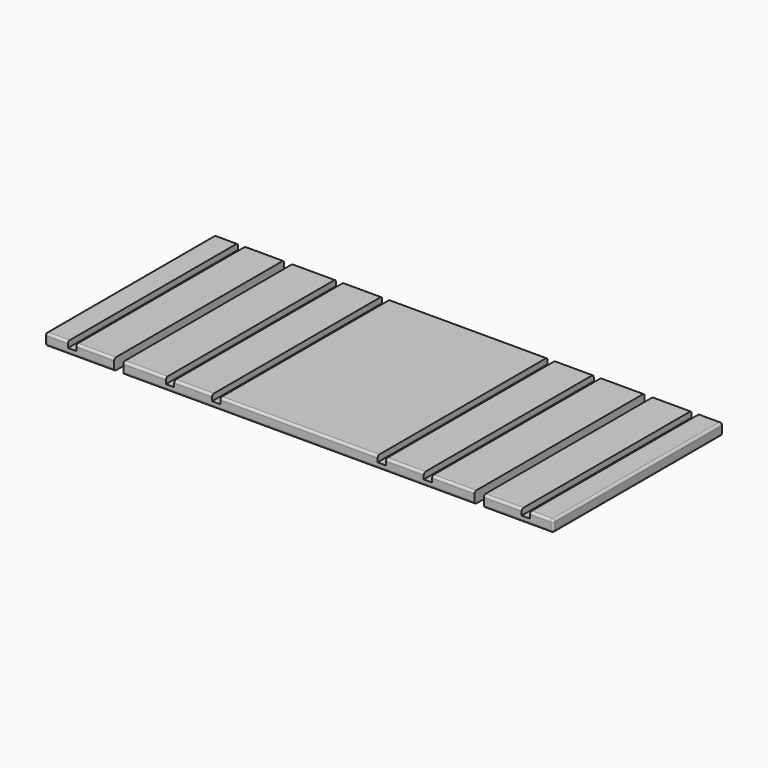
from build123d import *

# Parameters (mm, degrees)
F0_W     = 760
F0_H     = 460
F1_DEPTH = 25
F2_R     = 5
F3_W     = 18
F3_H     = 13
F4_DEPTH = 250
F6_DEPTH = 25
F7_R     = 5
F8_W     = 18
F8_H     = 13
F9_DEPTH = 250


with BuildPart() as f1:
    # F0 (on Top) → F1 (new body)
    with BuildSketch(Plane.XY):
        Rectangle(F0_W, F0_H)
    extrude(amount=F1_DEPTH)

    # F2
    f2_edges = [f1.edges().sort_by_distance(p)[0] for p in [
        (0, -230, 25),
        (0, 230, 25),
        (0, 230, 0),
        (0, -230, 0),
    ]]
    fillet(f2_edges, radius=F2_R)

    # F3 (on Front) → F4 (cut, symmetric)
    with BuildSketch(Plane.XZ):
        with Locations((-179, 18.5)):
            Rectangle(F3_W, F3_H)
        with Locations((-279, 18.5)):
            Rectangle(F3_W, F3_H)
        with Locations((179, 18.5)):
            Rectangle(F3_W, F3_H)
        with Locations((279, 18.5)):
            Rectangle(F3_W, F3_H)
    extrude(amount=F4_DEPTH, both=True, mode=Mode.SUBTRACT)


with BuildPart() as f6:
    # F5 (on Top) → F6 (new body)
    with BuildSketch(Plane.XY):
        Polygon((-400, -230), (-400, 0), (-400, 230), (-550, 230), (-550, -230), align=None)
        Polygon((400, 0), (400, -230), (550, -230), (550, 230), (400, 230), align=None)
    extrude(amount=F6_DEPTH)

    # F7
    f7_edges = [f6.edges().sort_by_distance(p)[0] for p in [
        (-475, 230, 25),
        (-550, 0, 25),
        (-475, -230, 25),
        (-475, -230, 0),
        (-550, 0, 0),
        (-475, 230, 0),
        (475, 230, 0),
        (550, 0, 0),
        (475, -230, 0),
        (475, 230, 25),
        (475, -230, 25),
        (550, 0, 25),
        (550, -230, 12.5),
        (550, 230, 12.5),
        (-550, -230, 12.5),
        (-550, 230, 12.5),
    ]]
    fillet(f7_edges, radius=F7_R)

    # F8 (on Front) → F9 (cut, symmetric)
    with BuildSketch(Plane.XZ):
        with Locations((-491, 18.5)):
            Rectangle(F8_W, F8_H)
        with Locations((491, 18.5)):
            Rectangle(F8_W, F8_H)
    extrude(amount=F9_DEPTH, both=True, mode=Mode.SUBTRACT)


solid = Compound([f1.part, f6.part])
